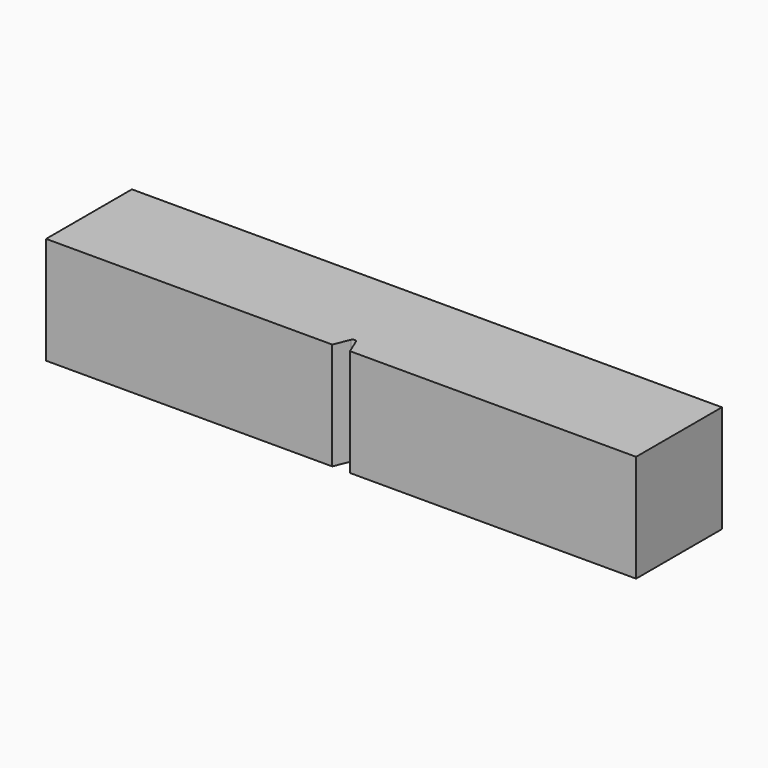
from build123d import *

# Parameters (mm, degrees)
F1_DEPTH = 10
F2_R     = 0.25


with BuildPart() as f1:
    # F0 (on Top) → F1 (new body)
    with BuildSketch(Plane.XY):
        Polygon((27.5, 5), (-27.5, 5), (-27.5, -5), (-0.828427, -5), (0, -3), (0.828427, -5), (27.5, -5), align=None)
    extrude(amount=F1_DEPTH)

    # F2
    f2_edges = [f1.edges().sort_by_distance(p)[0] for p in [
        (0, -3, 5),
    ]]
    fillet(f2_edges, radius=F2_R)


solid = f1.part
